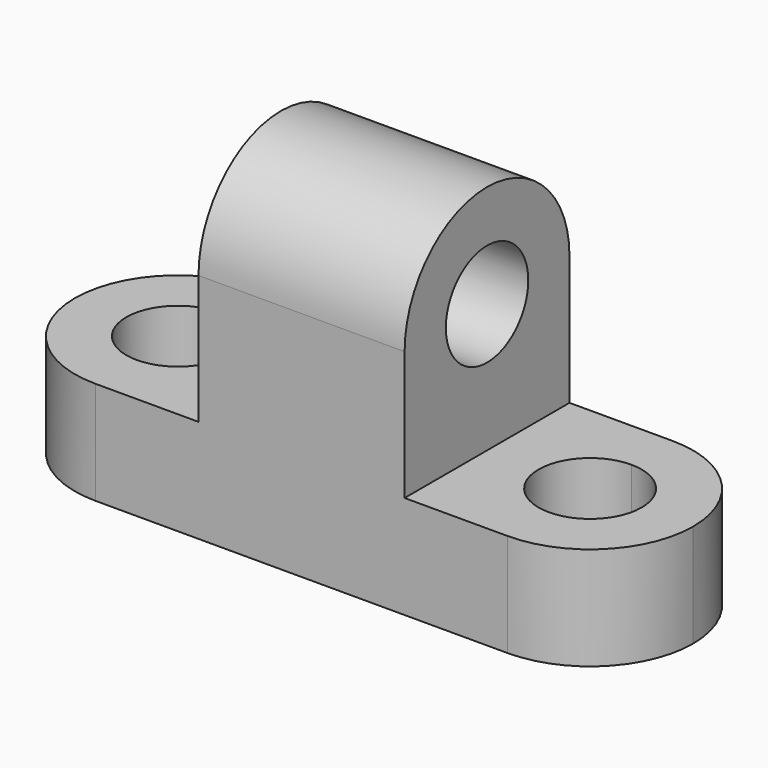
from build123d import *

# Parameters (mm, degrees)
F1_DEPTH = 25.4
F3_DEPTH = 50.801
F5_DEPTH = 12.701
F7_DEPTH = 25.4


with BuildPart() as f1:
    # F0 (on Front) → F1 (new body)
    with BuildSketch(Plane.XZ):
        Polygon((0, 12.7), (0, 0), (76.2, 0), (76.2, 12.7), (50.8, 12.7), (50.8, 44.45), (25.4, 44.45), (25.4, 12.7), align=None)
    extrude(amount=F1_DEPTH)

    # F2 (on face) → F3 (cut, through all)
    with BuildSketch(Plane.YZ.offset(50.8)):
        with BuildLine():
            Line((-19.05, 28.575), (-6.35, 28.575))
            ThreePointArc((-6.35, 28.575), (-12.7, 34.925), (-19.05, 28.575))
        make_face()
        with BuildLine():
            ThreePointArc((-19.05, 28.575), (-12.7, 22.225), (-6.35, 28.575))
            Line((-6.35, 28.575), (-19.05, 28.575))
        make_face()
        with BuildLine():
            ThreePointArc((-25.4, 28.575), (-12.7, 41.275), (0, 28.575))
            Line((0, 28.575), (0, 44.45))
            Line((0, 44.45), (-25.4, 44.45))
            Line((-25.4, 44.45), (-25.4, 28.575))
        make_face()
    extrude(amount=-F3_DEPTH, mode=Mode.SUBTRACT)

    # F4 (on face) → F5 (cut, through all)
    with BuildSketch(Plane.XY.offset(12.7)):
        with BuildLine():
            ThreePointArc((12.7, -6.35), (6.35, -12.7), (12.7, -19.05))
            Line((12.7, -19.05), (12.7, -6.35))
        make_face()
        with BuildLine():
            Line((12.7, -6.35), (12.7, -19.05))
            ThreePointArc((12.7, -19.05), (17.1901280605, -17.1901280605), (19.05, -12.7))
            ThreePointArc((19.05, -12.7), (17.1901280605, -8.2098719395), (12.7, -6.35))
        make_face()
        with BuildLine():
            Line((0, 0), (0, -12.7))
            ThreePointArc((0, -12.7), (3.7197438789, -3.7197438789), (12.7, 0))
            Line((12.7, 0), (0, 0))
        make_face()
        with BuildLine():
            Line((0, -25.4), (12.7, -25.4))
            ThreePointArc((12.7, -25.4), (3.7197438789, -21.6802561211), (0, -12.7))
            Line((0, -12.7), (0, -25.4))
        make_face()
    extrude(amount=-F5_DEPTH, mode=Mode.SUBTRACT)

    # F6 (on face) → F7 (cut)
    with BuildSketch(Plane.XY.offset(12.7)):
        with BuildLine():
            Line((63.5, -19.05), (63.5, -6.35))
            ThreePointArc((63.5, -6.35), (57.15, -12.7), (63.5, -19.05))
        make_face()
        with BuildLine():
            ThreePointArc((69.85, -12.7), (67.9901280605, -8.2098719395), (63.5, -6.35))
            Line((63.5, -6.35), (63.5, -19.05))
            ThreePointArc((63.5, -19.05), (67.9901280605, -17.1901280605), (69.85, -12.7))
        make_face()
        with BuildLine():
            Line((76.2, 0), (63.5, 0))
            ThreePointArc((63.5, 0), (72.4802561211, -3.7197438789), (76.2, -12.7))
            Line((76.2, -12.7), (76.2, 0))
        make_face()
        with BuildLine():
            Line((76.2, -25.4), (76.2, -12.7))
            ThreePointArc((76.2, -12.7), (72.4802561211, -21.6802561211), (63.5, -25.4))
            Line((63.5, -25.4), (76.2, -25.4))
        make_face()
    extrude(amount=-F7_DEPTH, mode=Mode.SUBTRACT)


solid = f1.part
